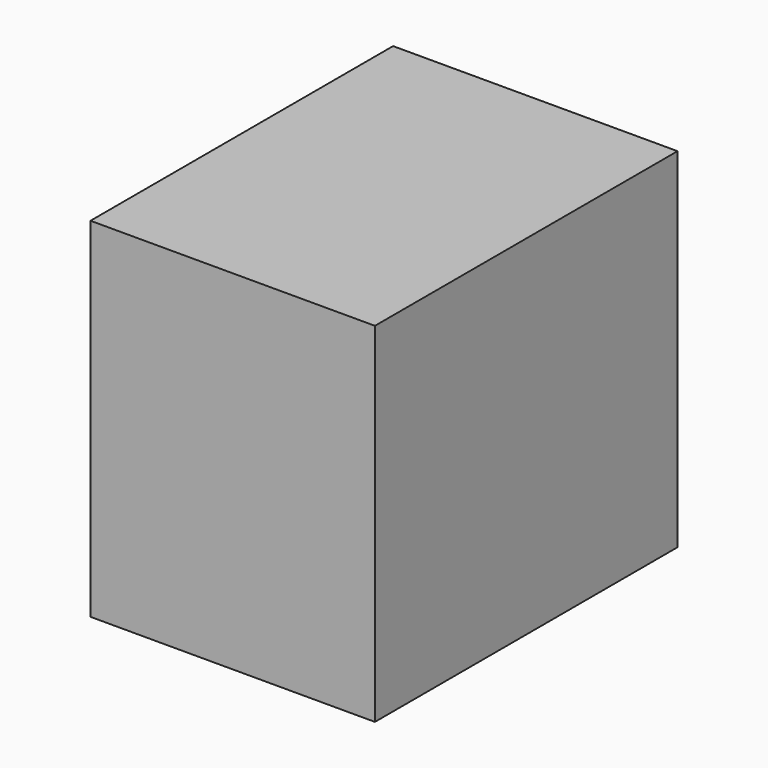
from build123d import *

# Parameters (mm, degrees)
F0_W     = 105.0522848964
F0_H     = 128.7936270237
F2_DEPTH = 63.5
F4_DEPTH = 12.7
F5_W     = 76.4315511703
F5_H     = 79.9982249737
F6_DEPTH = 25.4


with BuildPart() as f2:
    # F0 (on Front) → F2 (new body, symmetric)
    with BuildSketch(Plane.XZ):
        Rectangle(F0_W, F0_H)
    extrude(amount=F2_DEPTH, both=True)

    # F3 (on face) → F4 (join)
    with BuildSketch(Plane.XZ.offset(63.5)):
        Polygon((-23.9054914564, -64.3968135118), (0, -64.3968135118), (52.5261424482, -64.3968135118), (52.5261424482, 64.3968135118), (-52.5261424482, 64.3968135118), (-52.5261424482, -64.3968135118), align=None)
    extrude(amount=F4_DEPTH)

    # F5 (on face) → F6 (cut)
    with BuildSketch(Plane(origin=(-52.5261424482, 0, 0), x_dir=(0, -1, 0), z_dir=(-1, 0, 0))):
        with Locations((6.35, -24.397701025)):
            Rectangle(F5_W, F5_H)
    extrude(amount=-F6_DEPTH, mode=Mode.SUBTRACT)


solid = f2.part
